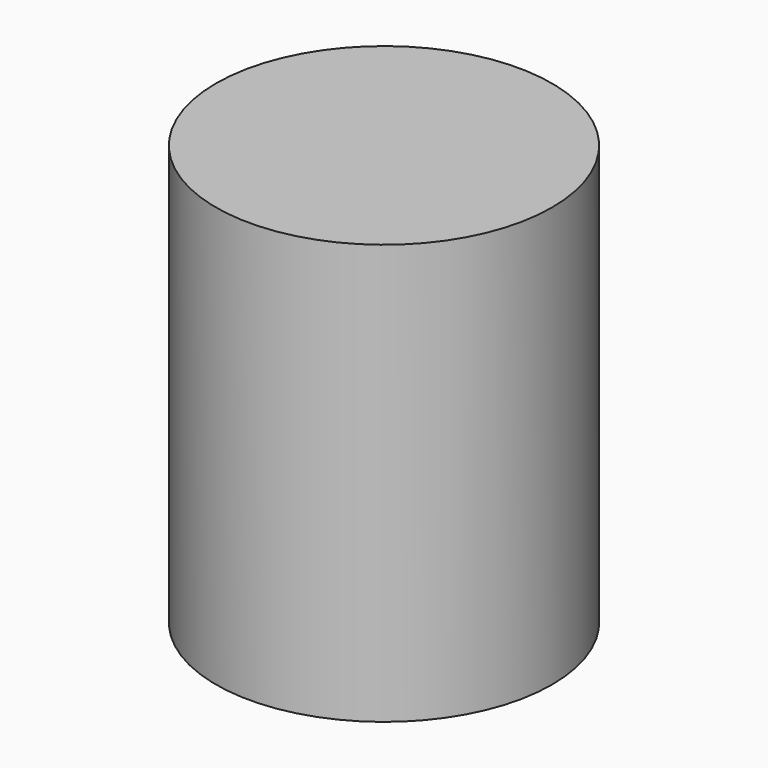
from build123d import *

# Parameters (mm, degrees)
CYLINDER_R     = 10
CYLINDER_DEPTH = 25


with BuildPart() as part:
    # Cylinder → Cylinder (join)
    with BuildSketch(Plane.XY):
        Circle(CYLINDER_R)
    extrude(amount=CYLINDER_DEPTH)


solid = part.part
